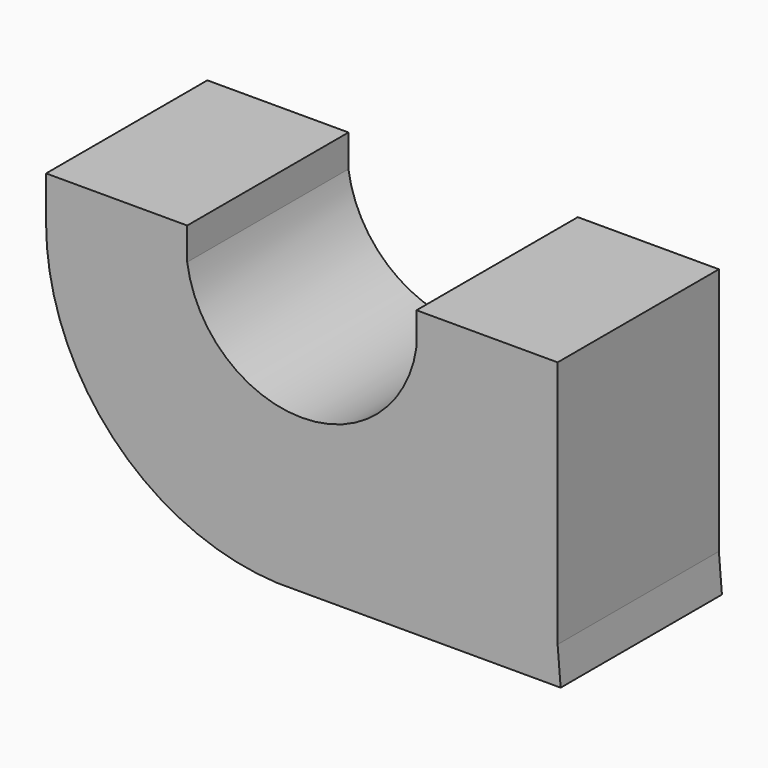
from build123d import *

# Parameters (mm, degrees)
F1_DEPTH = 25.4


with BuildPart() as f1:
    # F0 (on Front) → F1 (new body)
    with BuildSketch(Plane.XZ):
        with BuildLine():
            ThreePointArc((23.678034, 9.298763), (23.820302, 11.331181), (23.678034, 13.363599))
            Line((23.678034, 13.363599), (23.678034, 9.298763))
        make_face()
        with BuildLine():
            Line((41.458034, 13.363599), (23.678034, 13.363599))
            ThreePointArc((23.678034, 13.363599), (23.820302, 11.331181), (23.678034, 9.298763))
            ThreePointArc((23.678034, 9.298763), (9.231786, -3.257334), (-5.214461, 9.298763))
            ThreePointArc((-5.214461, 9.298763), (-5.356729, 11.331181), (-5.214461, 13.363599))
            Line((-5.214461, 13.363599), (-22.994461, 13.363599))
            Line((-22.994461, 13.363599), (-22.994461, 7.80735))
            ThreePointArc((-22.994461, 7.80735), (-13.63945, -14.144103), (8.673982, -22.599472))
            Line((8.673982, -22.599472), (41.840108, -22.599472))
            Line((41.840108, -22.599472), (41.458034, -17.928783))
            Line((41.458034, -17.928783), (41.458034, 13.363599))
        make_face()
        with BuildLine():
            ThreePointArc((-5.214461, 13.363599), (-5.356729, 11.331181), (-5.214461, 9.298763))
            Line((-5.214461, 9.298763), (-5.214461, 13.363599))
        make_face()
    extrude(amount=F1_DEPTH)


solid = f1.part
